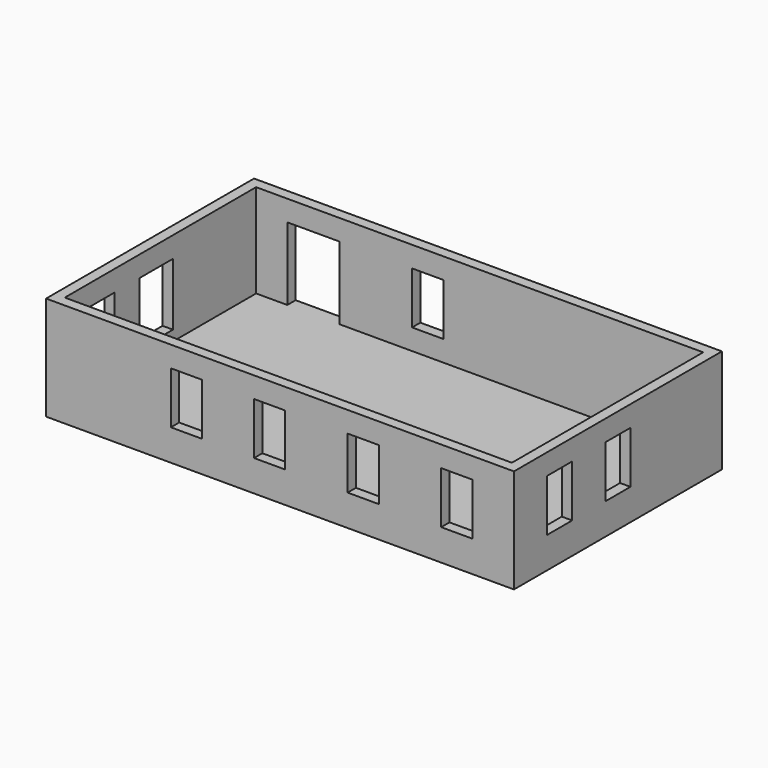
from build123d import *

# Parameters (mm, degrees)
BOX101_W     = 3
BOX101_H     = 4
BOX101_DEPTH = 6
BOX060_W     = 3
BOX060_H     = 6
BOX060_DEPTH = 5
BOX061_W     = 3
BOX061_H     = 6
BOX061_DEPTH = 5
BOX063_W     = 3
BOX063_H     = 6
BOX063_DEPTH = 5
BOX062_W     = 3
BOX062_H     = 6
BOX062_DEPTH = 5
BOX058_W     = 3
BOX058_H     = 6
BOX058_DEPTH = 5
BOX059_W     = 3
BOX059_H     = 6
BOX059_DEPTH = 5
BOX056_W     = 3
BOX056_H     = 6
BOX056_DEPTH = 5
BOX026_W     = 5
BOX026_H     = 7
BOX026_DEPTH = 7
BOX020_W     = 6
BOX020_H     = 4
BOX020_DEPTH = 6
BOX_W        = 43
BOX_H        = 23
BOX_DEPTH    = 10
BOX001_W     = 45
BOX001_H     = 25
BOX001_DEPTH = 10


with BuildPart() as box101:
    # Box101 → Box101 (new body)
    with BuildSketch(Plane(origin=(0, 3, 2), x_dir=(1, 0, 0), z_dir=(0, 0, 1))):
        with Locations((1.5, 2)):
            Rectangle(BOX101_W, BOX101_H)
    extrude(amount=BOX101_DEPTH)


with BuildPart() as box060:
    # Box060 → Box060 (new body)
    with BuildSketch(Plane(origin=(29, -2, 3), x_dir=(1, 0, 0), z_dir=(0, 0, 1))):
        with Locations((1.5, 3)):
            Rectangle(BOX060_W, BOX060_H)
    extrude(amount=BOX060_DEPTH)


with BuildPart() as box061:
    # Box061 → Box061 (new body)
    with BuildSketch(Plane(origin=(38, -2, 3), x_dir=(1, 0, 0), z_dir=(0, 0, 1))):
        with Locations((1.5, 3)):
            Rectangle(BOX061_W, BOX061_H)
    extrude(amount=BOX061_DEPTH)


with BuildPart() as box063:
    # Box063 → Box063 (new body)
    with BuildSketch(Plane(origin=(46, 11, 3), x_dir=(0, 1, 0), z_dir=(0, 0, 1))):
        with Locations((1.5, 3)):
            Rectangle(BOX063_W, BOX063_H)
    extrude(amount=BOX063_DEPTH)


with BuildPart() as box062:
    # Box062 → Box062 (new body)
    with BuildSketch(Plane(origin=(46, 4, 3), x_dir=(0, 1, 0), z_dir=(0, 0, 1))):
        with Locations((1.5, 3)):
            Rectangle(BOX062_W, BOX062_H)
    extrude(amount=BOX062_DEPTH)


with BuildPart() as box058:
    # Box058 → Box058 (new body)
    with BuildSketch(Plane(origin=(12, -2, 3), x_dir=(1, 0, 0), z_dir=(0, 0, 1))):
        with Locations((1.5, 3)):
            Rectangle(BOX058_W, BOX058_H)
    extrude(amount=BOX058_DEPTH)


with BuildPart() as box059:
    # Box059 → Box059 (new body)
    with BuildSketch(Plane(origin=(20, -2, 3), x_dir=(1, 0, 0), z_dir=(0, 0, 1))):
        with Locations((1.5, 3)):
            Rectangle(BOX059_W, BOX059_H)
    extrude(amount=BOX059_DEPTH)


with BuildPart() as box056:
    # Box056 → Box056 (new body)
    with BuildSketch(Plane(origin=(16, 20, 3), x_dir=(1, 0, 0), z_dir=(0, 0, 1))):
        with Locations((1.5, 3)):
            Rectangle(BOX056_W, BOX056_H)
    extrude(amount=BOX056_DEPTH)


with BuildPart() as box026:
    # Box026 → Box026 (new body)
    with BuildSketch(Plane(origin=(4, 20, 1), x_dir=(1, 0, 0), z_dir=(0, 0, 1))):
        with Locations((2.5, 3.5)):
            Rectangle(BOX026_W, BOX026_H)
    extrude(amount=BOX026_DEPTH)


with BuildPart() as box020:
    # Box020 → Box020 (new body)
    with BuildSketch(Plane(origin=(-2, 10, 2), x_dir=(1, 0, 0), z_dir=(0, 0, 1))):
        with Locations((3, 2)):
            Rectangle(BOX020_W, BOX020_H)
    extrude(amount=BOX020_DEPTH)


with BuildPart() as box:
    # Box → Box (new body)
    with BuildSketch(Plane(origin=(1, 1, 1), x_dir=(1, 0, 0), z_dir=(0, 0, 1))):
        with Locations((21.5, 11.5)):
            Rectangle(BOX_W, BOX_H)
    extrude(amount=BOX_DEPTH)


with BuildPart() as cut037:
    # Box001 → Box001 (new body)
    with BuildSketch(Plane.XY):
        with Locations((22.5, 12.5)):
            Rectangle(BOX001_W, BOX001_H)
    extrude(amount=BOX001_DEPTH)

    # Cut: cut Box
    add(box.part, mode=Mode.SUBTRACT)

    # Cut001: cut Box020
    add(box020.part, mode=Mode.SUBTRACT)

    # Cut029: cut Box026
    add(box026.part, mode=Mode.SUBTRACT)

    # Cut030: cut Box056
    add(box056.part, mode=Mode.SUBTRACT)

    # Cut031: cut Box059
    add(box059.part, mode=Mode.SUBTRACT)

    # Cut032: cut Box058
    add(box058.part, mode=Mode.SUBTRACT)

    # Cut033: cut Box062
    add(box062.part, mode=Mode.SUBTRACT)

    # Cut034: cut Box063
    add(box063.part, mode=Mode.SUBTRACT)

    # Cut035: cut Box061
    add(box061.part, mode=Mode.SUBTRACT)

    # Cut036: cut Box060
    add(box060.part, mode=Mode.SUBTRACT)

    # Cut037: cut Box101
    add(box101.part, mode=Mode.SUBTRACT)


solid = cut037.part
